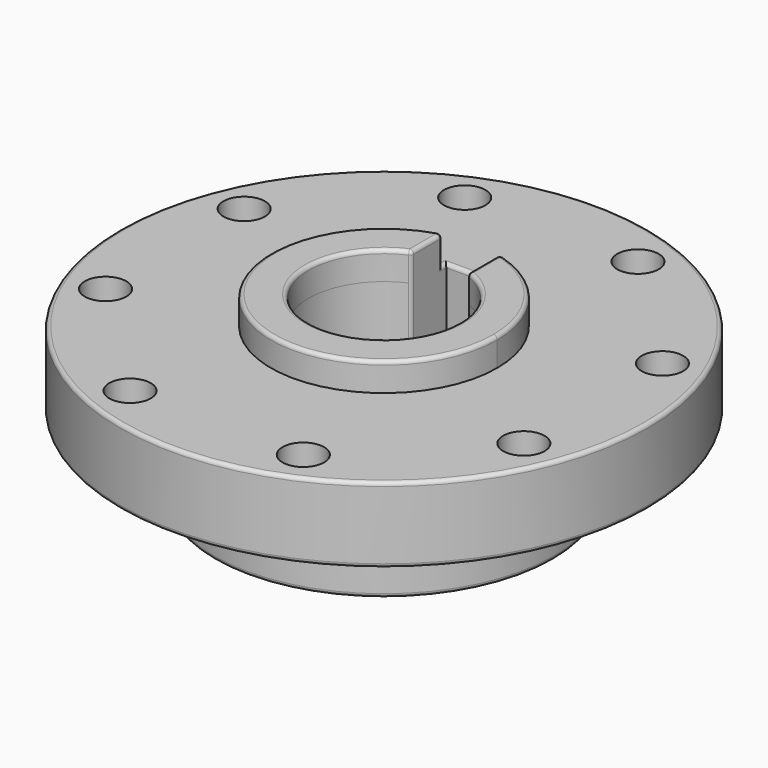
from build123d import *

# Parameters (mm, degrees)
F0_R      = 14
F1_DEPTH  = 4
F2_R      = 9
F3_DEPTH  = 4
F4_R      = 4
F5_DEPTH  = 8
F6_R      = 1.1
F7_DEPTH  = 4
F9_DEPTH  = 8
F10_R     = 1
F11_DEPTH = 25
F13_DEPTH = 1.5
F14_R     = 0.2


with BuildPart() as f1:
    # F0 (on Top) → F1 (new body)
    with BuildSketch(Plane.XY):
        Circle(F0_R)
    extrude(amount=F1_DEPTH)

    # F2 (on face) → F3 (join)
    with BuildSketch(Plane(origin=(0, 0, 0), x_dir=(1, 0, 0), z_dir=(0, 0, -1))):
        Circle(F2_R)
    extrude(amount=F3_DEPTH)

    # F4 (on face) → F5 (cut, through all)
    with BuildSketch(Plane.XY.offset(4)):
        Circle(F4_R)
    extrude(amount=-F5_DEPTH, mode=Mode.SUBTRACT)

    # F6 (on face) → F7 (cut, through all)
    with BuildSketch(Plane(origin=(0, 0, 0), x_dir=(1, 0, 0), z_dir=(0, 0, -1))):
        with Locations((4.5922011884, 11.0865543901)):
            Circle(F6_R)
        with Locations((-4.5922011884, 11.0865543901)):
            Circle(F6_R)
        with Locations((-11.0865543901, 4.5922011884)):
            Circle(F6_R)
        with Locations((-11.0865543901, -4.5922011884)):
            Circle(F6_R)
        with Locations((-4.5922011884, -11.0865543901)):
            Circle(F6_R)
        with BuildLine():
            ThreePointArc((4.1712494128, -10.0702869044), (3.9810739321, -12.0011709637), (5.6922011884, -11.0865543901))
            ThreePointArc((5.6922011884, -11.0865543901), (5.2033284447, -10.1719378166), (4.1712494128, -10.0702869044))
        make_face()
        with Locations((11.0865543901, -4.5922011884)):
            Circle(F6_R)
        with Locations((11.0865543901, 4.5922011884)):
            Circle(F6_R)
    extrude(amount=-F7_DEPTH, mode=Mode.SUBTRACT)

    # F8 (on face) → F9 (cut, through all)
    with BuildSketch(Plane.XY.offset(4)):
        with BuildLine():
            ThreePointArc((-1.5, 3.7080992435), (0, 4), (1.5, 3.7080992435))
            Line((1.5, 3.7080992435), (1.5, 6))
            Line((1.5, 6), (-1.5, 6))
            Line((-1.5, 6), (-1.5, 3.7080992435))
        make_face()
    extrude(amount=-F9_DEPTH, mode=Mode.SUBTRACT)

    # F10 (on Front) → F11 (cut)
    with BuildSketch(Plane.XZ):
        with Locations((0, -1.4)):
            Circle(F10_R)
    extrude(amount=-F11_DEPTH, mode=Mode.SUBTRACT)

    # F12 (on face) → F13 (join)
    with BuildSketch(Plane.XY.offset(4)):
        with BuildLine():
            ThreePointArc((-1.5, 5.8094750193), (-3.6742346142, -4.7434164903), (6, 0))
            ThreePointArc((6, 0), (4.7434164903, 3.6742346142), (1.5, 5.8094750193))
            Line((1.5, 5.8094750193), (1.5, 3.7080992435))
            ThreePointArc((1.5, 3.7080992435), (3.3166247904, 2.2360679775), (4, 0))
            ThreePointArc((4, 0), (-2.2360679775, -3.3166247904), (-1.5, 3.7080992435))
            Line((-1.5, 3.7080992435), (-1.5, 5.8094750193))
        make_face()
    extrude(amount=F13_DEPTH)

    # F14
    f14_edges = [f1.edges().sort_by_distance(p)[0] for p in [
        (-14, 0, 4),
        (-14, 0, 0),
        (-9, 0, -4),
        (0, -4, -4),
        (-1.5, 4.758787, 5.5),
        (-3.674235, -4.743416, 5.5),
        (4.743416, 3.674235, 5.5),
        (1.5, 4.758787, 5.5),
        (0, -4, 5.5),
        (1.5, 5.904738, 4),
        (0, 6, 4),
        (-1.5, 5.904738, 4),
        (1.5, 5.809475, 4.75),
        (-1.5, 5.809475, 4.75),
        (-1.5, 3.708099, 0.75),
        (1.5, 3.708099, 0.75),
        (1.5, 4.85405, -4),
        (0, 6, -4),
        (-1.5, 4.85405, -4),
    ]]
    fillet(f14_edges, radius=F14_R)


solid = f1.part
